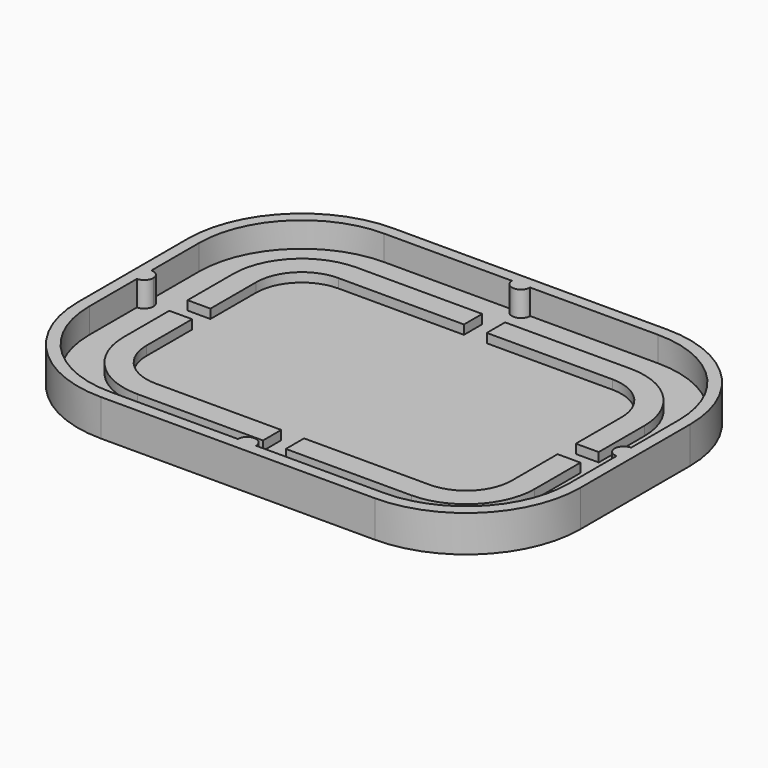
from build123d import *

# Parameters (mm, degrees)
F1_DEPTH = 8
F2_T     = -2.5
F4_DEPTH = 2
F6_DEPTH = 5.5


with BuildPart() as f1:
    # F0 (on Top) → F1 (new body)
    with BuildSketch(Plane.XY):
        with BuildLine():
            Line((-30, -40), (30, -40))
            ThreePointArc((30, -40), (47.6776695297, -32.6776695297), (55, -15))
            Line((55, -15), (55, 15))
            ThreePointArc((55, 15), (47.6776695297, 32.6776695297), (30, 40))
            Line((30, 40), (-30, 40))
            ThreePointArc((-30, 40), (-47.6776695297, 32.6776695297), (-55, 15))
            Line((-55, 15), (-55, -15))
            ThreePointArc((-55, -15), (-47.6776695297, -32.6776695297), (-30, -40))
        make_face()
    extrude(amount=F1_DEPTH)

    # F2
    f2_openings = [f1.faces().sort_by_distance(p)[0] for p in [
        (0, 0, 8),
    ]]
    offset(amount=F2_T, openings=f2_openings)

    # F3 (on face) → F4 (join)
    with BuildSketch(Plane.XY.offset(2.5)):
        with BuildLine():
            Line((-45, 15), (-45, 2.5))
            Line((-45, 2.5), (-40, 2.5))
            Line((-40, 2.5), (-40, 15))
            ThreePointArc((-40, 15), (-37.0710678119, 22.0710678119), (-30, 25))
            Line((-30, 25), (-2.5, 25))
            Line((-2.5, 25), (-2.5, 30))
            Line((-2.5, 30), (-30, 30))
            ThreePointArc((-30, 30), (-40.6066017178, 25.6066017178), (-45, 15))
        make_face()
        with BuildLine():
            Line((40, 2.5), (45, 2.5))
            Line((45, 2.5), (45, 15))
            ThreePointArc((45, 15), (40.6066017178, 25.6066017178), (30, 30))
            Line((30, 30), (2.5, 30))
            Line((2.5, 30), (2.5, 25))
            Line((2.5, 25), (30, 25))
            ThreePointArc((30, 25), (37.0710678119, 22.0710678119), (40, 15))
            Line((40, 15), (40, 2.5))
        make_face()
        with BuildLine():
            Line((2.5, -30), (30, -30))
            ThreePointArc((30, -30), (40.6066017178, -25.6066017178), (45, -15))
            Line((45, -15), (45, -2.5))
            Line((45, -2.5), (40, -2.5))
            Line((40, -2.5), (40, -15))
            ThreePointArc((40, -15), (37.0710678119, -22.0710678119), (30, -25))
            Line((30, -25), (2.5, -25))
            Line((2.5, -25), (2.5, -30))
        make_face()
        with BuildLine():
            Line((-30, -30), (-2.5, -30))
            Line((-2.5, -30), (-2.5, -25))
            Line((-2.5, -25), (-30, -25))
            ThreePointArc((-30, -25), (-37.0710678119, -22.0710678119), (-40, -15))
            Line((-40, -15), (-40, -2.5))
            Line((-40, -2.5), (-45, -2.5))
            Line((-45, -2.5), (-45, -15))
            ThreePointArc((-45, -15), (-40.6066017178, -25.6066017178), (-30, -30))
        make_face()
    extrude(amount=F4_DEPTH)

    # F5 (on face) → F6 (join, through all)
    with BuildSketch(Plane.XY.offset(2.5)):
        with BuildLine():
            ThreePointArc((-2, 37.5), (0, 35.5), (2, 37.5))
            Line((2, 37.5), (-2, 37.5))
        make_face()
        with BuildLine():
            Line((52.5, -2), (52.5, 2))
            ThreePointArc((52.5, 2), (50.5, 0), (52.5, -2))
        make_face()
        with BuildLine():
            Line((-2, -37.5), (2, -37.5))
            ThreePointArc((2, -37.5), (0, -35.5), (-2, -37.5))
        make_face()
        with BuildLine():
            ThreePointArc((-50.5, 0), (-51.0857864376, 1.4142135624), (-52.5, 2))
            Line((-52.5, 2), (-52.5, -2))
            ThreePointArc((-52.5, -2), (-51.0857864376, -1.4142135624), (-50.5, 0))
        make_face()
    extrude(amount=F6_DEPTH)


solid = f1.part
